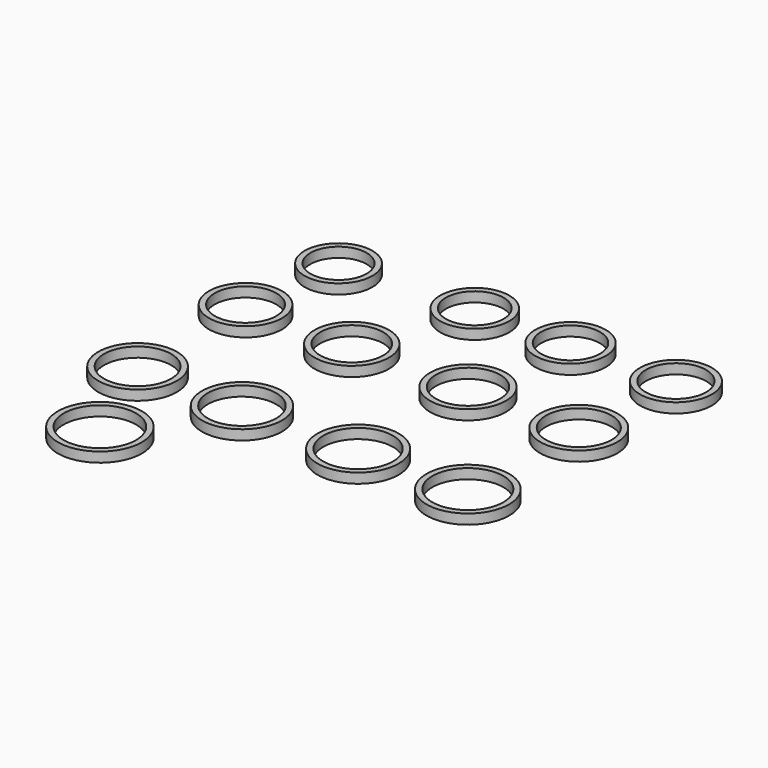
from build123d import *

# Parameters (mm, degrees)
F0_R      = 10.4521
F0_R_2    = 8.6741
F1_DEPTH  = 3.048
F2_R      = 10.6553
F2_R_2    = 8.8773
F3_DEPTH  = 3.048
F4_R      = 10.8712
F4_R_2    = 9.0932
F5_DEPTH  = 3.048
F6_R      = 11.0744
F6_R_2    = 9.2964
F7_DEPTH  = 3.048
F6_R_3    = 11.2776
F6_R_4    = 9.4996
F8_DEPTH  = 3.048
F6_R_5    = 11.4808
F6_R_6    = 9.7028
F9_DEPTH  = 3.048
F6_R_7    = 11.6967
F6_R_8    = 9.9187
F10_DEPTH = 3.048
F6_R_9    = 11.8999
F6_R_10   = 10.1219
F11_DEPTH = 3.048
F12_R     = 12.1158
F12_R_2   = 10.3378
F13_DEPTH = 3.048
F12_R_3   = 12.319
F12_R_4   = 10.541
F14_DEPTH = 3.048
F12_R_5   = 12.5222
F12_R_6   = 10.7442
F15_DEPTH = 3.048
F12_R_7   = 12.7254
F12_R_8   = 10.9474
F16_DEPTH = 3.048
F12_R_9   = 12.9413
F12_R_10  = 11.1633
F17_DEPTH = 3.048


with BuildPart() as f1:
    # F0 (on Top) → F1 (new body)
    with BuildSketch(Plane.XY):
        with Locations((-50.039258, 48.190843)):
            Circle(F0_R)
        with Locations((-50.039258, 48.190843)):
            Circle(F0_R_2, mode=Mode.SUBTRACT)
    extrude(amount=F1_DEPTH)


with BuildPart() as f3:
    # F2 (on Top) → F3 (new body)
    with BuildSketch(Plane.XY):
        with Locations((-9.829864, 50.362695)):
            Circle(F2_R)
        with Locations((-9.829864, 50.362695)):
            Circle(F2_R_2, mode=Mode.SUBTRACT)
    extrude(amount=F3_DEPTH)


with BuildPart() as f5:
    # F4 (on Top) → F5 (new body)
    with BuildSketch(Plane.XY):
        with Locations((19.403011, 50.685037)):
            Circle(F4_R)
        with Locations((19.403011, 50.685037)):
            Circle(F4_R_2, mode=Mode.SUBTRACT)
    extrude(amount=F5_DEPTH)


with BuildPart() as f7:
    # F6 (on Top) → F7 (new body)
    with BuildSketch(Plane.XY):
        with Locations((51.633024, 50.994047)):
            Circle(F6_R)
        with Locations((51.633024, 50.994047)):
            Circle(F6_R_2, mode=Mode.SUBTRACT)
    extrude(amount=F7_DEPTH)


with BuildPart() as f8:
    # F6 (on Top) → F8 (new body)
    with BuildSketch(Plane.XY):
        with Locations((-54.079269, 17.434589)):
            Circle(F6_R_3)
        with Locations((-54.079269, 17.434589)):
            Circle(F6_R_4, mode=Mode.SUBTRACT)
    extrude(amount=F8_DEPTH)


with BuildPart() as f9:
    # F6 (on Top) → F9 (new body)
    with BuildSketch(Plane.XY):
        with Locations((-21.358797, 17.434589)):
            Circle(F6_R_5)
        with Locations((-21.358797, 17.434589)):
            Circle(F6_R_6, mode=Mode.SUBTRACT)
    extrude(amount=F9_DEPTH)


with BuildPart() as f10:
    # F6 (on Top) → F10 (new body)
    with BuildSketch(Plane.XY):
        with Locations((14.437957, 17.434589)):
            Circle(F6_R_7)
        with Locations((14.437957, 17.434589)):
            Circle(F6_R_8, mode=Mode.SUBTRACT)
    extrude(amount=F10_DEPTH)


with BuildPart() as f11:
    # F6 (on Top) → F11 (new body)
    with BuildSketch(Plane.XY):
        with Locations((48.55674, 17.434589)):
            Circle(F6_R_9)
        with Locations((48.55674, 17.434589)):
            Circle(F6_R_10, mode=Mode.SUBTRACT)
    extrude(amount=F11_DEPTH)


with BuildPart() as f13:
    # F12 (on Top) → F13 (new body)
    with BuildSketch(Plane.XY):
        with Locations((-54.26421, -23.897376)):
            Circle(F12_R)
        with Locations((-54.26421, -23.897376)):
            Circle(F12_R_2, mode=Mode.SUBTRACT)
    extrude(amount=F13_DEPTH)


with BuildPart() as f14:
    # F12 (on Top) → F14 (new body)
    with BuildSketch(Plane.XY):
        with Locations((-21.862945, -24.203731)):
            Circle(F12_R_3)
        with Locations((-21.862945, -24.203731)):
            Circle(F12_R_4, mode=Mode.SUBTRACT)
    extrude(amount=F14_DEPTH)


with BuildPart() as f15:
    # F12 (on Top) → F15 (new body)
    with BuildSketch(Plane.XY):
        with Locations((13.897534, -24.203731)):
            Circle(F12_R_5)
        with Locations((13.897534, -24.203731)):
            Circle(F12_R_6, mode=Mode.SUBTRACT)
    extrude(amount=F15_DEPTH)


with BuildPart() as f16:
    # F12 (on Top) → F16 (new body)
    with BuildSketch(Plane.XY):
        with Locations((47.707438, -24.203731)):
            Circle(F12_R_7)
        with Locations((47.707438, -24.203731)):
            Circle(F12_R_8, mode=Mode.SUBTRACT)
    extrude(amount=F16_DEPTH)


with BuildPart() as f17:
    # F12 (on Top) → F17 (new body)
    with BuildSketch(Plane.XY):
        with Locations((-41.693754, -54.112494)):
            Circle(F12_R_9)
        with Locations((-41.693754, -54.112494)):
            Circle(F12_R_10, mode=Mode.SUBTRACT)
    extrude(amount=F17_DEPTH)


solid = Compound([f1.part, f3.part, f5.part, f7.part, f8.part, f9.part, f10.part, f11.part, f13.part, f14.part, f15.part, f16.part, f17.part])
